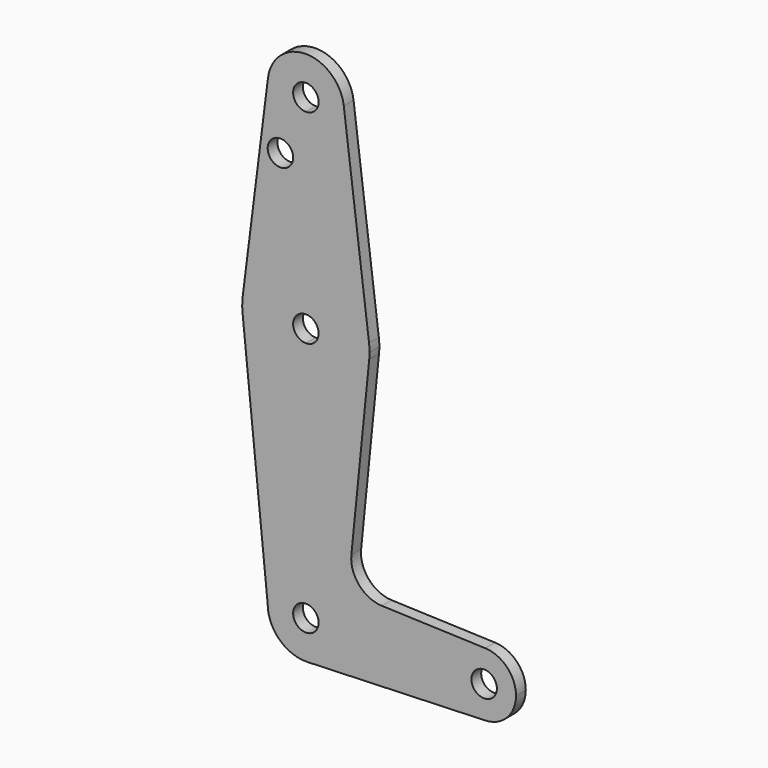
from build123d import *

# Parameters (mm, degrees)
F0_R     = 3.175
F1_DEPTH = 3.048


with BuildPart() as f1:
    # F0 (on Front) → F1 (new body)
    with BuildSketch(Plane.XZ):
        with BuildLine():
            ThreePointArc((3.175, 114.3), (-2.245064, 116.545064), (0, 111.125))
            ThreePointArc((0, 111.125), (2.245064, 112.054936), (3.175, 114.3))
        make_face()
        with BuildLine():
            ThreePointArc((0, 104.775), (6.735192, 107.564808), (9.525, 114.3))
            ThreePointArc((9.525, 114.3), (9.506305, 114.896483), (9.450293, 115.490625))
            ThreePointArc((9.450293, 115.490625), (0, 123.825), (-9.450293, 115.490625))
            ThreePointArc((-9.450293, 115.490625), (-7.14375, 107.999805), (0, 104.775))
        make_face()
        with BuildLine():
            ThreePointArc((3.175, 114.3), (2.245064, 112.054936), (0, 111.125))
            ThreePointArc((0, 111.125), (-2.245064, 116.545064), (3.175, 114.3))
        make_face(mode=Mode.SUBTRACT)
        with BuildLine():
            ThreePointArc((9.450293, 115.490625), (9.506305, 114.896483), (9.525, 114.3))
            ThreePointArc((9.525, 114.3), (6.735192, 107.564808), (0, 104.775))
            Line((0, 104.775), (0, 79.375))
            ThreePointArc((0, 79.375), (10.500326, 75.40625), (15.750488, 65.484375))
            Line((15.750488, 65.484375), (9.450293, 115.490625))
        make_face()
        with BuildLine():
            Line((0, 79.375), (0, 104.775))
            ThreePointArc((0, 104.775), (-7.14375, 107.999805), (-9.450293, 115.490625))
            Line((-9.450293, 115.490625), (-15.750488, 65.484375))
            ThreePointArc((-15.750488, 65.484375), (-10.500326, 75.40625), (0, 79.375))
        make_face()
        with Locations((-6.35, 100.0252)):
            Circle(F0_R, mode=Mode.SUBTRACT)
        with BuildLine():
            ThreePointArc((15.875, 63.5), (15.843841, 64.494139), (15.750488, 65.484375))
            ThreePointArc((15.750488, 65.484375), (10.500326, 75.40625), (0, 79.375))
            Line((0, 79.375), (0, 66.675))
            ThreePointArc((0, 66.675), (2.245064, 65.745064), (3.175, 63.5))
            ThreePointArc((3.175, 63.5), (2.245064, 61.254936), (0, 60.325))
            Line((0, 60.325), (0, 47.625))
            ThreePointArc((0, 47.625), (10.649274, 51.726785), (15.795426, 61.9125))
            ThreePointArc((15.795426, 61.9125), (15.855094, 62.705253), (15.875, 63.5))
        make_face()
        with BuildLine():
            Line((0, 66.675), (0, 79.375))
            ThreePointArc((0, 79.375), (-10.500326, 75.40625), (-15.750488, 65.484375))
            ThreePointArc((-15.750488, 65.484375), (-15.873819, 63.693615), (-15.794203, 61.90038))
            ThreePointArc((-15.794203, 61.90038), (-10.644756, 51.7227), (0, 47.625))
            Line((0, 47.625), (0, 60.325))
            ThreePointArc((0, 60.325), (-3.175, 63.5), (0, 66.675))
        make_face()
        with BuildLine():
            ThreePointArc((0, 47.625), (-10.644756, 51.7227), (-15.794203, 61.90038))
            Line((-15.794203, 61.90038), (-9.525, 0))
            ThreePointArc((-9.525, 0), (-6.735192, 6.735192), (0, 9.525))
            Line((0, 9.525), (0, 47.625))
        make_face()
        with BuildLine():
            Line((11.341187, 17.593382), (15.795426, 61.9125))
            ThreePointArc((15.795426, 61.9125), (10.649274, 51.726785), (0, 47.625))
            Line((0, 47.625), (0, 9.525))
            ThreePointArc((0, 9.525), (6.735192, 6.735192), (9.525, 0))
            ThreePointArc((9.525, 0), (6.854408, -6.613827), (0.340179, -9.518923))
            Line((0.340179, -9.518923), (44.733482, -7.932436))
            ThreePointArc((44.733482, -7.932436), (36.5125, 0), (44.733482, 7.932436))
            Line((44.733482, 7.932436), (18.9676, 8.853234))
            ThreePointArc((18.9676, 8.853234), (13.2612, 11.571359), (11.341187, 17.593382))
        make_face()
        with BuildLine():
            ThreePointArc((3.175, 0), (2.245064, 2.245064), (0, 3.175))
            ThreePointArc((0, 3.175), (-2.245064, -2.245064), (3.175, 0))
        make_face()
        with BuildLine():
            ThreePointArc((0, 9.525), (-6.735192, 6.735192), (-9.525, 0))
            ThreePointArc((-9.525, 0), (-6.613827, -6.854408), (0.340179, -9.518923))
            ThreePointArc((0.340179, -9.518923), (6.854408, -6.613827), (9.525, 0))
            ThreePointArc((9.525, 0), (6.735192, 6.735192), (0, 9.525))
        make_face()
        with BuildLine():
            ThreePointArc((3.175, 0), (-2.245064, -2.245064), (0, 3.175))
            ThreePointArc((0, 3.175), (2.245064, 2.245064), (3.175, 0))
        make_face(mode=Mode.SUBTRACT)
        with BuildLine():
            ThreePointArc((44.733482, 7.932436), (36.5125, 0), (44.733482, -7.932436))
            ThreePointArc((44.733482, -7.932436), (50.162007, -5.511523), (52.3875, 0))
            ThreePointArc((52.3875, 0), (50.162007, 5.511523), (44.733482, 7.932436))
        make_face()
        with Locations((44.45, 0)):
            Circle(F0_R, mode=Mode.SUBTRACT)
    extrude(amount=F1_DEPTH)


solid = f1.part
